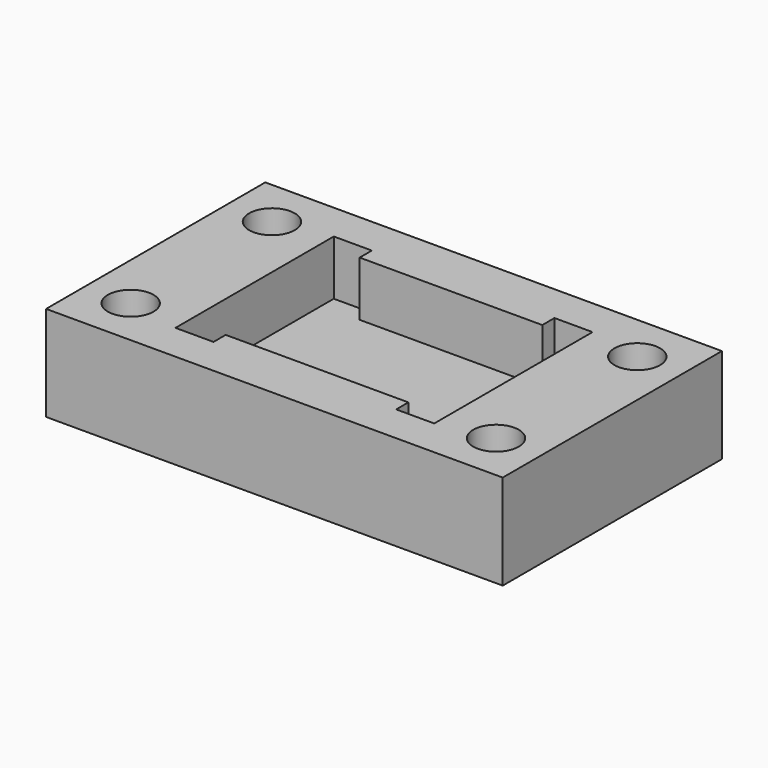
from build123d import *

# Parameters (mm, degrees)
F0_W     = 30
F0_H     = 18
F0_R     = 1.5
F1_DEPTH = 6.25
F3_DEPTH = 3.6


with BuildPart() as f1:
    # F0 (on Top) → F1 (new body)
    with BuildSketch(Plane.XY):
        Rectangle(F0_W, F0_H)
        with Locations((-12, -5.8)):
            Circle(F0_R, mode=Mode.SUBTRACT)
        with Locations((12, -5.8)):
            Circle(F0_R, mode=Mode.SUBTRACT)
        with Locations((-12, 5.8)):
            Circle(F0_R, mode=Mode.SUBTRACT)
        with Locations((12, 5.8)):
            Circle(F0_R, mode=Mode.SUBTRACT)
    extrude(amount=F1_DEPTH)

    # F2 (on face) → F3 (cut)
    with BuildSketch(Plane.XY.offset(6.25)):
        Polygon((8.5, -6.5), (8.5, 6.5), (6, 6.5), (6, 5.5), (-6, 5.5), (-6, 6.5), (-8.5, 6.5), (-8.5, -6.5), (-6, -6.5), (-6, -5.5), (6, -5.5), (6, -6.5), align=None)
    extrude(amount=-F3_DEPTH, mode=Mode.SUBTRACT)


solid = f1.part
